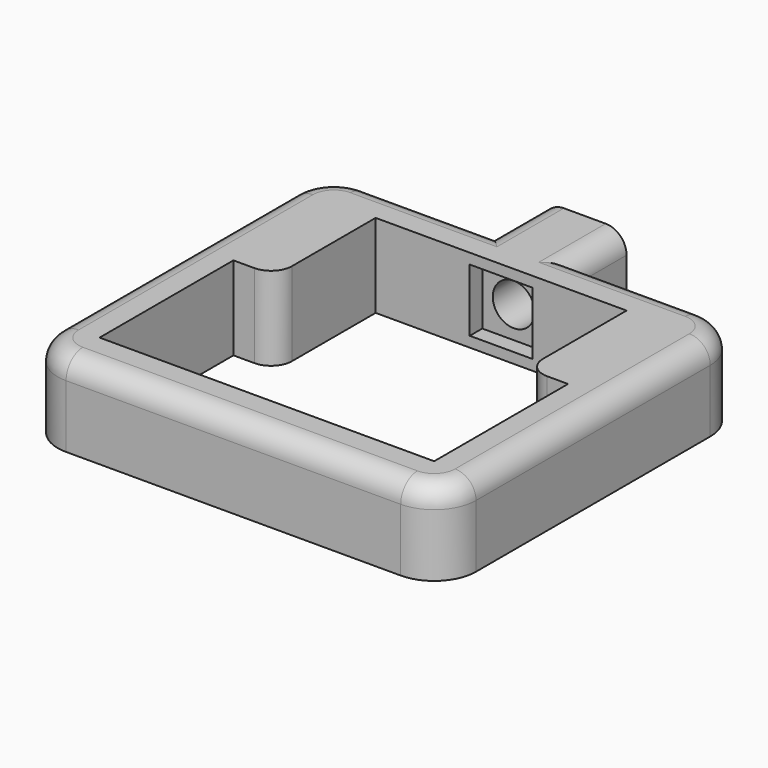
from build123d import *

# Parameters (mm, degrees)
SKETCH_W        = 40
SKETCH_H        = 36
PAD_DEPTH       = 8
POCKET_DEPTH    = 8
FILLET_R        = 4
FILLET001_R     = 4
FILLET002_R     = 4
FILLET003_R     = 4
SKETCH002_W     = 8
SKETCH002_H     = 8
PAD001_DEPTH    = 6
FILLET004_R     = 2
FILLET005_R     = 2
FILLET006_R     = 2
FILLET007_R     = 2
FILLET008_R     = 2
SKETCH003_R     = 2
POCKET001_DEPTH = 10
SKETCH004_W     = 6
SKETCH004_H     = 6
POCKET002_DEPTH = 1.5


with BuildPart() as part:
    # Sketch → Pad (new body)
    with BuildSketch(Plane.XY):
        with Locations((20, 18)):
            Rectangle(SKETCH_W, SKETCH_H)
    extrude(amount=PAD_DEPTH)

    # Sketch001 → Pocket (cut)
    with BuildSketch(Plane.XY.offset(8)):
        Polygon((4, 4), (4, 20), (8, 20), (8, 32), (32, 32), (32, 20), (36, 20), (36, 4), align=None)
    extrude(amount=-POCKET_DEPTH, mode=Mode.SUBTRACT)

    # Fillet
    fillet_edges = [part.edges().sort_by_distance(p)[0] for p in [
        (40, 36, 4),
    ]]
    fillet(fillet_edges, radius=FILLET_R)

    # Fillet001
    fillet001_edges = [part.edges().sort_by_distance(p)[0] for p in [
        (0, 36, 4),
    ]]
    fillet(fillet001_edges, radius=FILLET001_R)

    # Fillet002
    fillet002_edges = [part.edges().sort_by_distance(p)[0] for p in [
        (40, 0, 4),
    ]]
    fillet(fillet002_edges, radius=FILLET002_R)

    # Fillet003
    fillet003_edges = [part.edges().sort_by_distance(p)[0] for p in [
        (0, 0, 4),
    ]]
    fillet(fillet003_edges, radius=FILLET003_R)

    # Sketch002 → Pad001 (new body)
    with BuildSketch(Plane(origin=(0, 36, 0), x_dir=(-1, 0, 0), z_dir=(0, 1, 0))):
        with Locations((-20, 4)):
            Rectangle(SKETCH002_W, SKETCH002_H)
    extrude(amount=PAD001_DEPTH)

    # Fillet004
    fillet004_edges = [part.edges().sort_by_distance(p)[0] for p in [
        (40, 18, 8),
    ]]
    fillet(fillet004_edges, radius=FILLET004_R)

    # Fillet005
    fillet005_edges = [part.edges().sort_by_distance(p)[0] for p in [
        (8, 20, 4),
    ]]
    fillet(fillet005_edges, radius=FILLET005_R)

    # Fillet006
    fillet006_edges = [part.edges().sort_by_distance(p)[0] for p in [
        (32, 20, 4),
    ]]
    fillet(fillet006_edges, radius=FILLET006_R)

    # Fillet007
    fillet007_edges = [part.edges().sort_by_distance(p)[0] for p in [
        (24, 39, 8),
    ]]
    fillet(fillet007_edges, radius=FILLET007_R)

    # Fillet008
    fillet008_edges = [part.edges().sort_by_distance(p)[0] for p in [
        (16, 39, 8),
    ]]
    fillet(fillet008_edges, radius=FILLET008_R)

    # Sketch003 → Pocket001 (cut)
    with BuildSketch(Plane(origin=(0, 42, 0), x_dir=(-1, 0, 0), z_dir=(0, 1, 0))):
        with Locations((-20, 4)):
            Circle(SKETCH003_R)
    extrude(amount=-POCKET001_DEPTH, mode=Mode.SUBTRACT)

    # Sketch004 → Pocket002 (cut)
    with BuildSketch(Plane.XZ.offset(-32)):
        with Locations((20, 4)):
            Rectangle(SKETCH004_W, SKETCH004_H)
    extrude(amount=-POCKET002_DEPTH, mode=Mode.SUBTRACT)


solid = part.part
